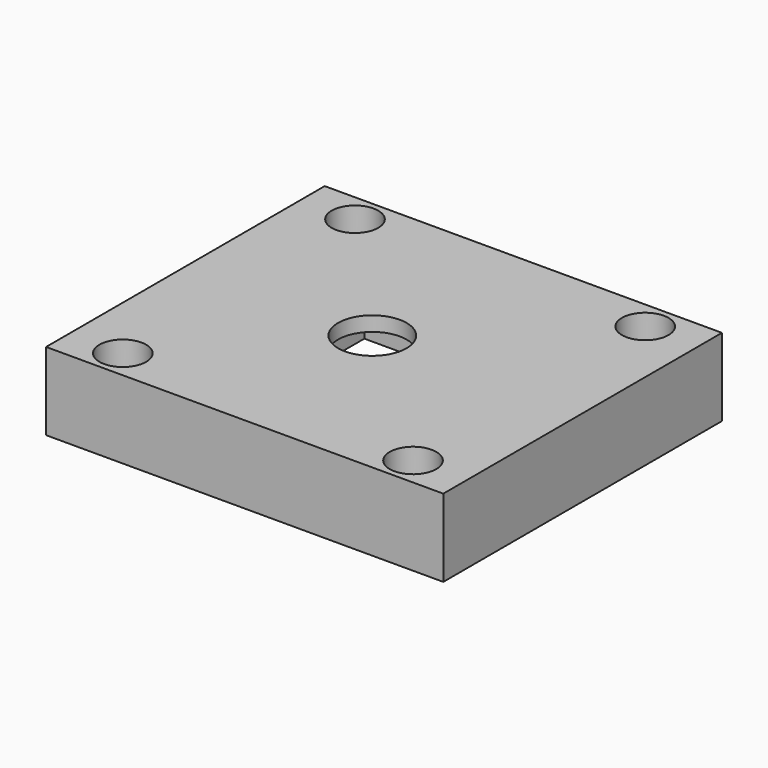
from build123d import *

# Parameters (mm, degrees)
F0_W      = 43.450012
F0_H      = 38.1
F0_R      = 1.6
F1_DEPTH  = 8.5
F2_R      = 2.55
F3_DEPTH  = 3.2
F4_R      = 3.75
F5_DEPTH  = 8.5
F6_W      = 8.75
F6_H      = 8.75
F7_DEPTH  = 6.9
F8_W      = 25
F8_H      = 26
F9_DEPTH  = 5
F10_W     = 22
F10_H     = 3
F11_DEPTH = 9.225006


with BuildPart() as f1:
    # F0 (on Top) → F1 (new body)
    with BuildSketch(Plane.XY):
        Rectangle(F0_W, F0_H)
        with Locations((-15.875, -15.875)):
            Circle(F0_R, mode=Mode.SUBTRACT)
        with Locations((15.875, -15.875)):
            Circle(F0_R, mode=Mode.SUBTRACT)
        with Locations((-15.875, 15.875)):
            Circle(F0_R, mode=Mode.SUBTRACT)
        with Locations((15.875, 15.875)):
            Circle(F0_R, mode=Mode.SUBTRACT)
    extrude(amount=F1_DEPTH)

    # F2 (on face) → F3 (cut)
    with BuildSketch(Plane.XY.offset(8.5)):
        with Locations((-15.875, 15.875)):
            Circle(F2_R)
        with Locations((-15.875, -15.875)):
            Circle(F2_R)
        with Locations((15.875, 15.875)):
            Circle(F2_R)
        with Locations((15.875, -15.875)):
            Circle(F2_R)
    extrude(amount=-F3_DEPTH, mode=Mode.SUBTRACT)

    # F4 (on face) → F5 (cut, through all)
    with BuildSketch(Plane.XY.offset(8.5)):
        with Locations((-1.274994, 0)):
            Circle(F4_R)
    extrude(amount=-F5_DEPTH, mode=Mode.SUBTRACT)

    # F6 (on face) → F7 (cut)
    with BuildSketch(Plane(origin=(0, 0, 0), x_dir=(1, 0, 0), z_dir=(0, 0, -1))):
        with Locations((-1.274994, 0)):
            Rectangle(F6_W, F6_H)
    extrude(amount=-F7_DEPTH, mode=Mode.SUBTRACT)

    # F8 (on face) → F9 (cut)
    with BuildSketch(Plane(origin=(0, 0, 0), x_dir=(1, 0, 0), z_dir=(0, 0, -1))):
        Rectangle(F8_W, F8_H)
    extrude(amount=-F9_DEPTH, mode=Mode.SUBTRACT)

    # F10 (on face) → F11 (cut, through all)
    with BuildSketch(Plane(origin=(-21.725006, 0, 0), x_dir=(0, -1, 0), z_dir=(-1, 0, 0))):
        with Locations((0, 1.5)):
            Rectangle(F10_W, F10_H)
    extrude(amount=-F11_DEPTH, mode=Mode.SUBTRACT)


solid = f1.part
